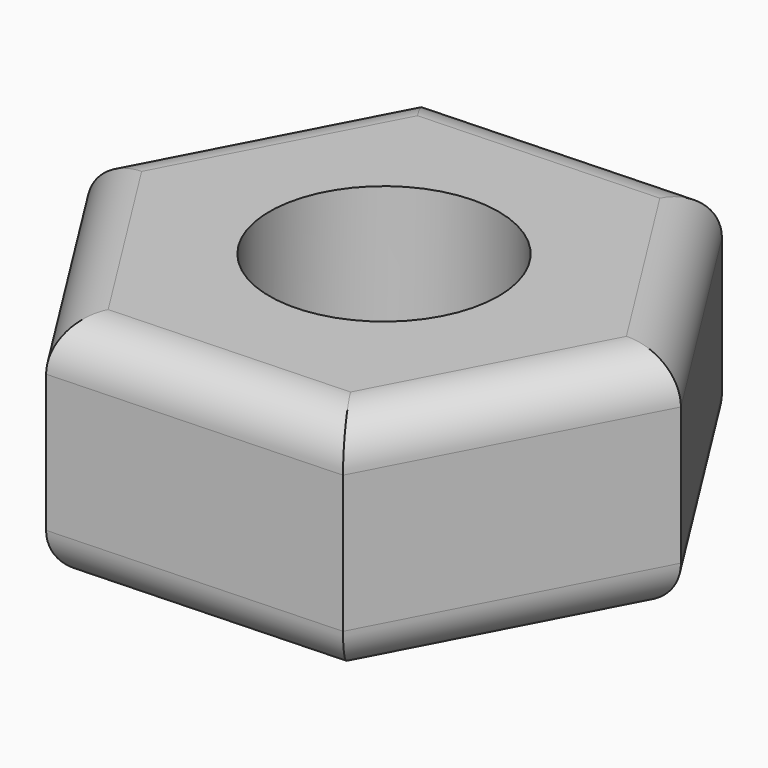
from build123d import *

# Parameters (mm, degrees)
F0_R     = 3.175
F1_DEPTH = 6.35
F2_R     = 1.27


with BuildPart() as f1:
    # F0 (on Top) → F1 (new body)
    with BuildSketch(Plane.XY):
        Polygon((4.262474, -6.748315), (7.975449, 0.317253), (3.712975, 7.065568), (-4.262474, 6.748315), (-7.975449, -0.317253), (-3.712975, -7.065568), align=None)
        Circle(F0_R, mode=Mode.SUBTRACT)
    extrude(amount=F1_DEPTH)

    # F2
    f2_edges = [f1.edges().sort_by_distance(p)[0] for p in [
        (0.274749, -6.906941, 6.35),
        (6.118961, -3.215531, 6.35),
        (5.844212, 3.69141, 6.35),
        (-0.274749, 6.906941, 6.35),
        (-6.118961, 3.215531, 6.35),
        (-5.844212, -3.69141, 6.35),
        (6.118961, -3.215531, 0),
        (0.274749, -6.906941, 0),
        (-5.844212, -3.69141, 0),
        (-6.118961, 3.215531, 0),
        (-0.274749, 6.906941, 0),
        (5.844212, 3.69141, 0),
    ]]
    fillet(f2_edges, radius=F2_R)


solid = f1.part
